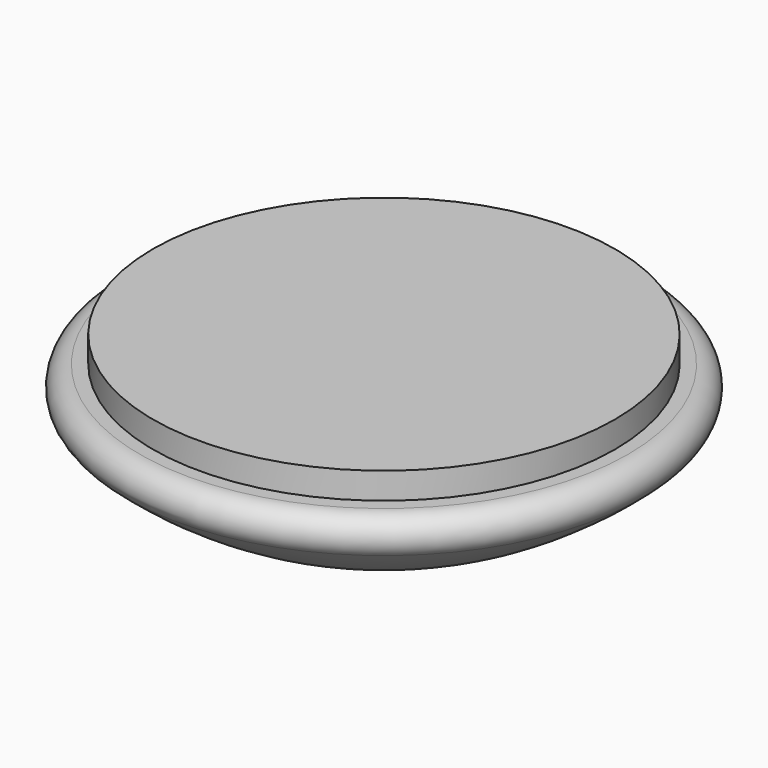
from build123d import *


with BuildPart() as f2:
    # F1 (on Front) → F2 (revolve)
    with BuildSketch(Plane.XZ):
        with BuildLine():
            Line((0, -120), (0, 0))
            Line((0, 0), (-175, 0))
            Line((-175, 0), (-175, -20))
            Line((-175, -20), (-185, -20))
            ThreePointArc((-185, -20), (-199.029294, -29.691619), (-194.929712, -46.242812))
            ThreePointArc((-194.929712, -46.242812), (-104.208584, -100.944114), (0, -120))
        make_face()
    revolve(axis=Axis((0, 0, -60), (0, 0, -1)))


solid = f2.part
